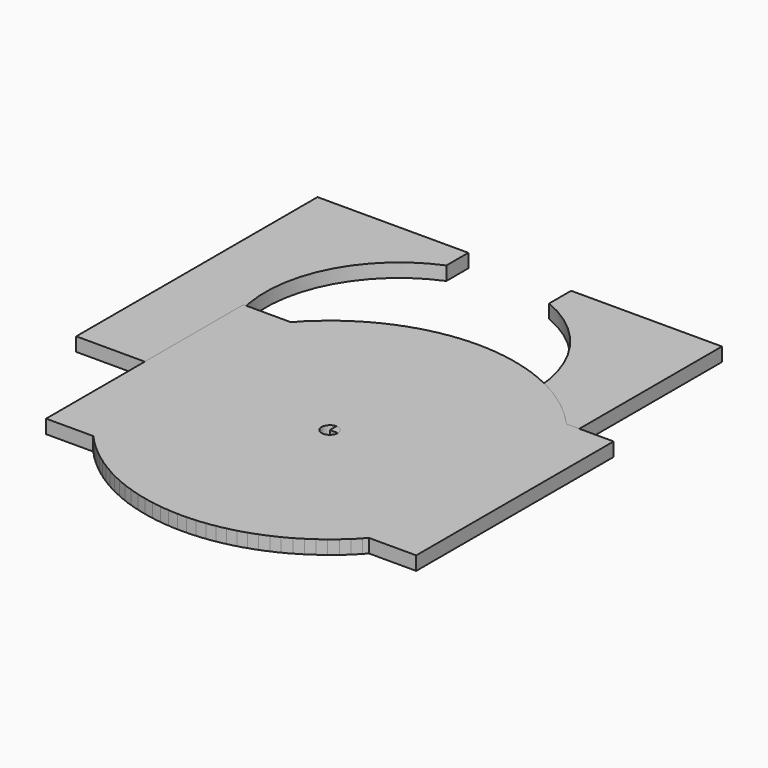
from build123d import *

# Parameters (mm, degrees)
F1_DEPTH = 10
F2_R     = 135
F2_R_2   = 6
F3_DEPTH = 10
F4_R     = 6
F5_DEPTH = 10


with BuildPart() as f1:
    # F0 (on Top) → F1 (new body)
    with BuildSketch(Plane.XY):
        with BuildLine():
            Line((0, 20), (0, 0))
            Line((0, 0), (110, 0))
            Line((110, 0), (110, 220))
            Line((110, 220), (0, 220))
            Line((0, 220), (0, 200))
            ThreePointArc((0, 200), (43.6249036979, 164.083269132), (60, 110))
            ThreePointArc((60, 110), (43.6249036979, 55.916730868), (0, 20))
        make_face()
    extrude(amount=F1_DEPTH)


with BuildPart() as f1b:
    # F0 (on Top) → F1, piece 2 (new body)
    with BuildSketch(Plane.XY):
        with BuildLine():
            Line((-75, 0), (-75, 20))
            ThreePointArc((-75, 20), (-135, 110), (-75, 200))
            Line((-75, 200), (-75, 220))
            Line((-75, 220), (-185, 220))
            Line((-185, 220), (-185, 0))
            Line((-185, 0), (-75, 0))
        make_face()
    extrude(amount=F1_DEPTH)


with BuildPart() as f3:
    # F2 (on Top) → F3 (new body)
    with BuildSketch(Plane.XY):
        Circle(F2_R)
        with BuildLine():
            ThreePointArc((-107.8503117784, -5.6842105263), (-76.3675323681, -76.3675323681), (-5.6842105263, -107.8503117784))
            ThreePointArc((-5.6842105263, -107.8503117784), (-1.6471424993, -109.7125125564), (0, -113.8419957661))
            ThreePointArc((0, -113.8419957661), (-1.8705167903, -118.1948532667), (-6.3157894737, -119.8336797537))
            ThreePointArc((-6.3157894737, -119.8336797537), (-84.8528137424, -84.8528137424), (-119.8336797537, -6.3157894737))
            ThreePointArc((-119.8336797537, -6.3157894737), (-118.1948532667, -1.8705167903), (-113.8419957661, 0))
            ThreePointArc((-113.8419957661, 0), (-109.7125125564, -1.6471424993), (-107.8503117784, -5.6842105263))
        make_face(mode=Mode.SUBTRACT)
        Circle(F2_R_2, mode=Mode.SUBTRACT)
        with BuildLine():
            ThreePointArc((6.3157894737, 119.8336797537), (84.8528137424, 84.8528137424), (119.8336797537, 6.3157894737))
            ThreePointArc((119.8336797537, 6.3157894737), (118.1948532667, 1.8705167903), (113.8419957661, 0))
            ThreePointArc((113.8419957661, 0), (109.7125125564, 1.6471424993), (107.8503117784, 5.6842105263))
            ThreePointArc((107.8503117784, 5.6842105263), (76.3675323681, 76.3675323681), (5.6842105263, 107.8503117784))
            ThreePointArc((5.6842105263, 107.8503117784), (1.6471424993, 109.7125125564), (0, 113.8419957661))
            ThreePointArc((0, 113.8419957661), (1.8705167903, 118.1948532667), (6.3157894737, 119.8336797537))
        make_face(mode=Mode.SUBTRACT)
    extrude(amount=F3_DEPTH)


with BuildPart() as f5:
    # F4 (on Top) → F5 (new body)
    with BuildSketch(Plane.XY):
        with BuildLine():
            ThreePointArc((100.6230589875, -90), (126.11326846, -48.1709821194), (135, 0))
            ThreePointArc((135, 0), (126.11326846, 48.1709821194), (100.6230589875, 90))
            Line((100.6230589875, 90), (-100.6230589875, 90))
            ThreePointArc((-100.6230589875, 90), (-126.113268469, 48.1709820958), (-135, -5.05e-08))
            ThreePointArc((-135, -5.05e-08), (-126.113268451, -48.1709821429), (-100.6230589875, -90))
            Line((-100.6230589875, -90), (100.6230589875, -90))
        make_face()
        Circle(F4_R, mode=Mode.SUBTRACT)
        with BuildLine():
            Line((-100.6230589875, 90), (100.6230589875, 90))
            ThreePointArc((100.6230589875, 90), (0, 135), (-100.6230589875, 90))
        make_face()
        with BuildLine():
            ThreePointArc((100.6230589875, 90), (126.11326846, 48.1709821194), (135, 0))
            Line((135, 0), (135, 90))
            Line((135, 90), (100.6230589875, 90))
        make_face()
        with BuildLine():
            Line((135, -90), (135, 0))
            ThreePointArc((135, 0), (126.11326846, -48.1709821194), (100.6230589875, -90))
            Line((100.6230589875, -90), (135, -90))
        make_face()
        with BuildLine():
            ThreePointArc((-100.6230589875, -90), (0, -135), (100.6230589875, -90))
            Line((100.6230589875, -90), (-100.6230589875, -90))
        make_face()
        with BuildLine():
            Line((-135, -90), (-100.6230589875, -90))
            ThreePointArc((-100.6230589875, -90), (-126.113268451, -48.1709821429), (-135, -5.05e-08))
            Line((-135, -5.05e-08), (-135, -90))
        make_face()
        with BuildLine():
            ThreePointArc((-135, -5.05e-08), (-126.113268469, 48.1709820958), (-100.6230589875, 90))
            Line((-100.6230589875, 90), (-135, 90))
            Line((-135, 90), (-135, -5.05e-08))
        make_face()
    extrude(amount=F5_DEPTH)


solid = Compound([f1.part, f1b.part, f3.part, f5.part])
